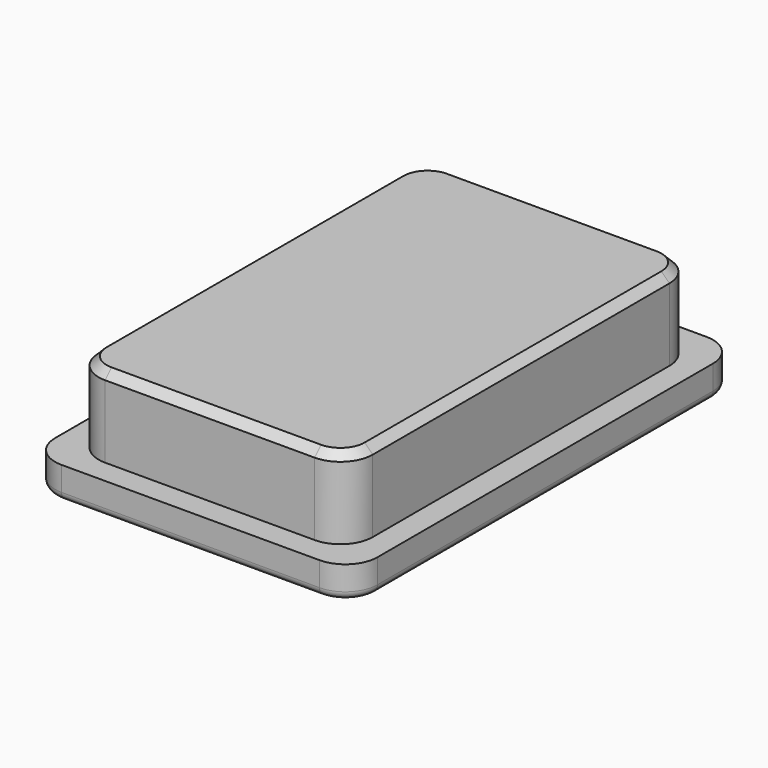
from build123d import *

# Parameters (mm, degrees)
F0_W     = 20
F0_H     = 30
F1_DEPTH = 2
F2_R     = 2
F3_W     = 17
F3_H     = 27
F4_DEPTH = 5
F5_R     = 2
F6_SIZE  = 0.5
F7_R     = 0.5


with BuildPart() as f1:
    # F0 (on Top) → F1 (new body)
    with BuildSketch(Plane.XY):
        Rectangle(F0_W, F0_H)
    extrude(amount=F1_DEPTH)

    # F2
    f2_edges = [f1.edges().sort_by_distance(p)[0] for p in [
        (-10, -15, 1),
        (10, -15, 1),
        (-10, 15, 1),
        (10, 15, 1),
    ]]
    fillet(f2_edges, radius=F2_R)

    # F3 (on face) → F4 (join)
    with BuildSketch(Plane.XY.offset(2)):
        Rectangle(F3_W, F3_H)
    extrude(amount=F4_DEPTH)

    # F5
    f5_edges = [f1.edges().sort_by_distance(p)[0] for p in [
        (-8.5, -13.5, 4.5),
        (8.5, -13.5, 4.5),
        (-8.5, 13.5, 4.5),
        (8.5, 13.5, 4.5),
    ]]
    fillet(f5_edges, radius=F5_R)

    # F6
    f6_edges = [f1.edges().sort_by_distance(p)[0] for p in [
        (-8.5, 0, 7),
    ]]
    chamfer(f6_edges, length=F6_SIZE)

    # F7
    f7_edges = [f1.edges().sort_by_distance(p)[0] for p in [
        (0, 15, 0),
        (9.414214, 14.414214, 0),
        (-9.414214, 14.414214, 0),
        (10, 0, 0),
        (-10, 0, 0),
        (9.414214, -14.414214, 0),
        (-9.414214, -14.414214, 0),
        (0, -15, 0),
    ]]
    fillet(f7_edges, radius=F7_R)


solid = f1.part
